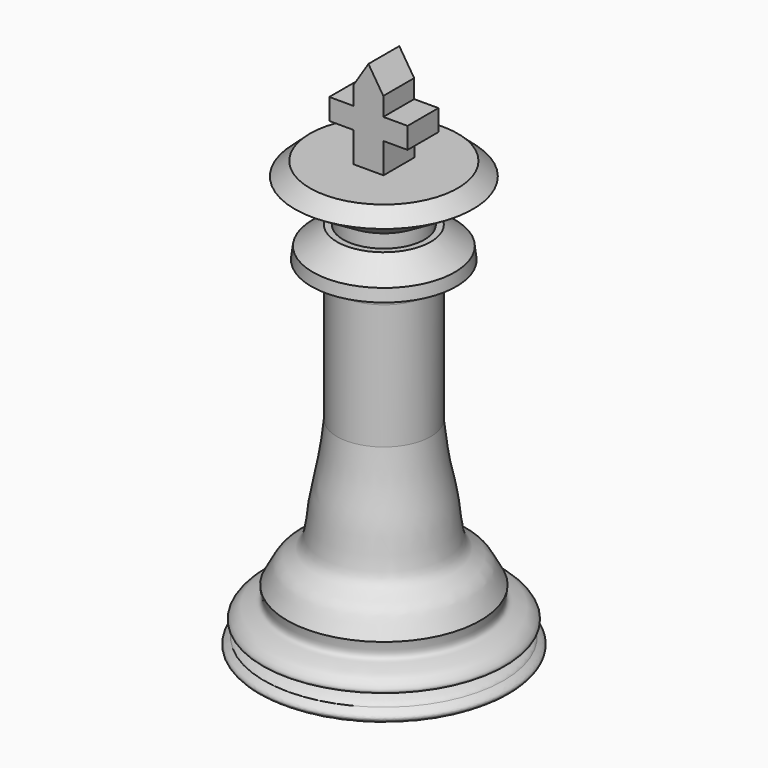
from build123d import *

# Parameters (mm, degrees)
F5_DEPTH = 2.5
F6_DEPTH = 2.5
F7_R     = 2


with BuildPart() as f1:
    # F0 (on Front) → F1 (revolve)
    with BuildSketch(Plane.XZ):
        with BuildLine():
            Line((0, -21.954966709), (0, 26.8223385131))
            Line((0, 26.8223385131), (-6.0717500746, 26.8223385131))
            Line((-6.0717500746, 26.8223385131), (-6.0717500746, 22.8180289268))
            Line((-6.0717500746, 22.8180289268), (-6.0717500746, 4.6027782373))
            add(Edge.make_bspline(
                [(-12.5311168618, -14.2708784841), (-11.9248152327, -13.4060784341), (-11.2520730018, -11.0721277139), (-7.8866061784, -10.1144733318), (-7.8767976501, -4.132714721), (-6.4634764567, 0), (-6.0717500746, 4.6027782373)],
                knots=[0, 0, 0, 0, 0.2054740926, 0.397095818, 0.645910977, 1, 1, 1, 1], degree=3))
            add(Edge.make_bspline(
                [(-12.5311168618, -14.2708784841), (-12.3814938517, -14.9974142764), (-12.0882487734, -16.4372369859), (-14.2667633483, -16.4391190838), (-15.6798569238, -17.5631194002), (-16.0576729381, -18.7587750802), (-12.330311337, -18.9185905941), (-15.282801701, -19.5802653565), (-15.5359646305, -20.1555620879)],
                knots=[0, 0, 0, 0, 0.1032033439, 0.2033279892, 0.306964437, 0.3739690848, 0.4803200245, 0.5906497642, 0.5906497642, 0.5906497642, 0.5906497642], degree=3))
            add(Edge.make_bspline(
                [(-15.5359646305, -20.1555620879), (-15.7605923038, -20.6660142559), (-14.1110786211, -22.182003819), (-12.6180294782, -18.6991748882), (-8.6327560988, -21.639573932), (-6.1735404049, -21.954966709)],
                knots=[0.5906497642, 0.5906497642, 0.5906497642, 0.5906497642, 0.6885436887, 0.8032276366, 1, 1, 1, 1], degree=3))
            Line((-6.1735404049, -21.954966709), (0, -21.954966709))
        make_face()
        Polygon((-6.0717500746, 22.8180289268), (-6.0717500746, 26.8223385131), (-9.2055564746, 24.3849344552), (-9.4014201313, 22.8180289268), align=None)
        with BuildLine():
            Line((-14.426744543, -21.8456373585), (-6.1735404049, -21.954966709))
            add(Edge.make_bspline(
                [(-15.5359646305, -20.1555620879), (-15.7605923038, -20.6660142559), (-14.1110786211, -22.182003819), (-12.6180294782, -18.6991748882), (-8.6327560988, -21.639573932), (-6.1735404049, -21.954966709)],
                knots=[0.5906497642, 0.5906497642, 0.5906497642, 0.5906497642, 0.6885436887, 0.8032276366, 1, 1, 1, 1], degree=3))
            add(Edge.make_bspline(
                [(-14.426744543, -21.8456373585), (-14.7459344368, -21.9030416429), (-15.4119268341, -22.0228161649), (-16.8253544165, -21.0589610473), (-15.9682904395, -20.4584671444), (-15.5359646305, -20.1555620879)],
                knots=[0, 0, 0, 0, 0.3132413536, 0.6535807182, 1, 1, 1, 1], degree=3))
        make_face()
    revolve(axis=Axis((0, 0, 2.433685902), (0, 0, -1)))

    # F2 (on Front) → F3 (revolve)
    with BuildSketch(Plane.XZ):
        Polygon((-5.2688508295, 26.6472455114), (0, 26.6472455114), (0, 34.090038389), (-9.5778349787, 34.090038389), (-11.5364650264, 32.3272719979), (-5.2688508295, 28.5616508495), align=None)
    revolve(axis=Axis((0, 0, 30.3686419502), (0, 0, -1)))

    # F4 (on Front) → F5 (join, symmetric)
    with BuildSketch(Plane.XZ):
        Polygon((-1.9515193999, 33.4873571992), (0, 33.4873571992), (0, 40.7493785024), (0, 46.1704432964), (-1.9277846441, 43.1448352321), (-1.9277846441, 40.7493785024), (-5.0729890354, 40.7493785024), (-5.0729890354, 38.0072966218), (-1.9515193999, 38.0072966218), align=None)
        Polygon((0, 40.7493785024), (0, 33.4873571992), (1.9515193999, 33.4873571992), (1.9515193999, 38.0072966218), (5.0729890354, 38.0072966218), (5.0729890354, 40.7493785024), (1.9277846441, 40.7493785024), (1.9277846441, 43.1448352321), (0, 46.1704432964), align=None)
    extrude(amount=F5_DEPTH, both=True)

    # F4 (on Front) → F6 (join, symmetric)
    with BuildSketch(Plane.XZ):
        Polygon((-1.9515193999, 33.4873571992), (0, 33.4873571992), (0, 40.7493785024), (0, 46.1704432964), (-1.9277846441, 43.1448352321), (-1.9277846441, 40.7493785024), (-5.0729890354, 40.7493785024), (-5.0729890354, 38.0072966218), (-1.9515193999, 38.0072966218), align=None)
        Polygon((0, 40.7493785024), (0, 33.4873571992), (1.9515193999, 33.4873571992), (1.9515193999, 38.0072966218), (5.0729890354, 38.0072966218), (5.0729890354, 40.7493785024), (1.9277846441, 40.7493785024), (1.9277846441, 43.1448352321), (0, 46.1704432964), align=None)
    extrude(amount=F6_DEPTH, both=True)

    # F7
    f7_edges = [f1.edges().sort_by_distance(p)[0] for p in [
        (6.07175, 0, 22.818029),
    ]]
    fillet(f7_edges, radius=F7_R)


solid = f1.part
